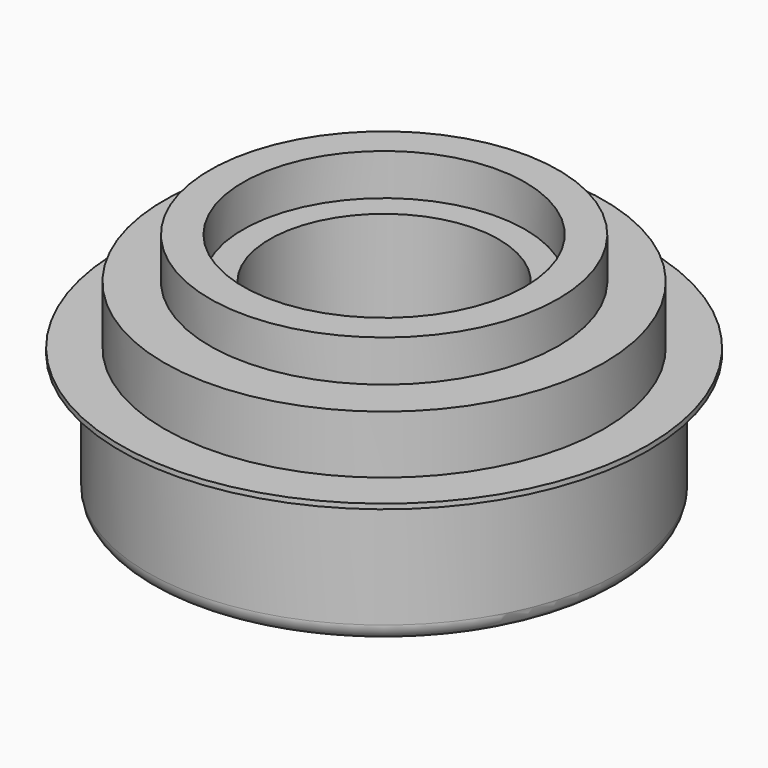
from build123d import *

# Parameters (mm, degrees)
SKETCH_R      = 14.25
PAD_DEPTH     = 8
SKETCH001_R   = 15.9
PAD001_DEPTH  = 0.3
SKETCH002_R   = 13.25
PAD002_DEPTH  = 3.5
SKETCH003_R   = 10.5
SKETCH003_R_2 = 8.5
PAD003_DEPTH  = 2.5
SKETCH004_R   = 6.9
POCKET_DEPTH  = 11.801
FILLET_R      = 1
FILLET001_R   = 1


with BuildPart() as part:
    # Sketch → Pad (new body)
    with BuildSketch(Plane.XY):
        Circle(SKETCH_R)
    extrude(amount=PAD_DEPTH)

    # Sketch001 (on Face3 of Pad) → Pad001 (join)
    with BuildSketch(Plane.XY.offset(8)):
        Circle(SKETCH001_R)
    extrude(amount=PAD001_DEPTH)

    # Sketch002 (on Face3 of Pad001) → Pad002 (join)
    with BuildSketch(Plane.XY.offset(8.3)):
        Circle(SKETCH002_R)
    extrude(amount=PAD002_DEPTH)

    # Sketch003 (on Face7 of Pad002) → Pad003 (join)
    with BuildSketch(Plane.XY.offset(11.8)):
        Circle(SKETCH003_R)
        Circle(SKETCH003_R_2, mode=Mode.SUBTRACT)
    extrude(amount=PAD003_DEPTH)

    # Sketch004 (on Face11 of Pad003) → Pocket (cut, through all)
    with BuildSketch(Plane.XY.offset(11.8)):
        Circle(SKETCH004_R)
    extrude(amount=-POCKET_DEPTH, mode=Mode.SUBTRACT)

    # Fillet
    fillet_edges = [part.edges().sort_by_distance(p)[0] for p in [
        (-14.25, 0, 0),
    ]]
    fillet(fillet_edges, radius=FILLET_R)

    # Fillet001
    fillet001_edges = [part.edges().sort_by_distance(p)[0] for p in [
        (-6.9, 0, 0),
    ]]
    fillet(fillet001_edges, radius=FILLET001_R)


solid = part.part
